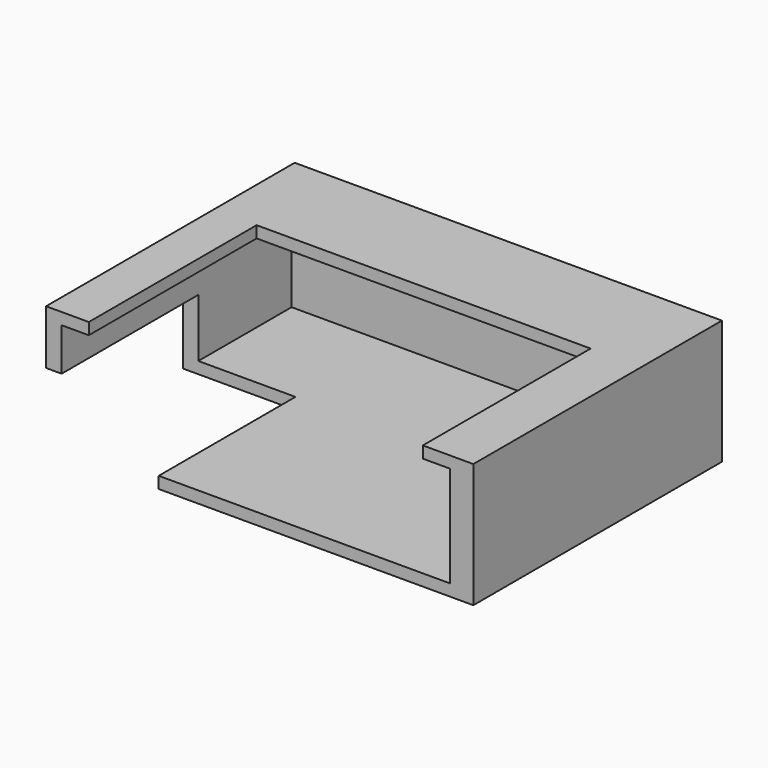
from build123d import *

# Parameters (mm, degrees)
BOX082_W     = 17
BOX082_H     = 24
BOX082_DEPTH = 11
BOX081_W     = 43
BOX081_H     = 27
BOX081_DEPTH = 11
BOX080_W     = 50
BOX080_H     = 37
BOX080_DEPTH = 13
BOX079_W     = 55
BOX079_H     = 40
BOX079_DEPTH = 16


with BuildPart() as cube010:
    # Box082 → Box082 (new body)
    with BuildSketch(Plane(origin=(337.5, 106, 176), x_dir=(1, 0, 0), z_dir=(0, 0, -1))):
        with Locations((8.5, 12)):
            Rectangle(BOX082_W, BOX082_H)
    extrude(amount=BOX082_DEPTH)


with BuildPart() as cube009:
    # Box081 → Box081 (new body)
    with BuildSketch(Plane(origin=(345.5, 111, 185), x_dir=(1, 0, 0), z_dir=(0, 0, -1))):
        with Locations((21.5, 13.5)):
            Rectangle(BOX081_W, BOX081_H)
    extrude(amount=BOX081_DEPTH)


with BuildPart() as cube008:
    # Box080 → Box080 (new body)
    with BuildSketch(Plane(origin=(342, 121, 181.5), x_dir=(1, 0, 0), z_dir=(0, 0, -1))):
        with Locations((25, 18.5)):
            Rectangle(BOX080_W, BOX080_H)
    extrude(amount=BOX080_DEPTH)


with BuildPart() as cut006:
    # Box079 → Box079 (new body)
    with BuildSketch(Plane(origin=(340, 124, 183), x_dir=(1, 0, 0), z_dir=(0, 0, -1))):
        with Locations((27.5, 20)):
            Rectangle(BOX079_W, BOX079_H)
    extrude(amount=BOX079_DEPTH)

    # Cut004: cut Cube008
    add(cube008.part, mode=Mode.SUBTRACT)

    # Cut005: cut Cube009
    add(cube009.part, mode=Mode.SUBTRACT)

    # Cut006: cut Cube010
    add(cube010.part, mode=Mode.SUBTRACT)


solid = cut006.part
